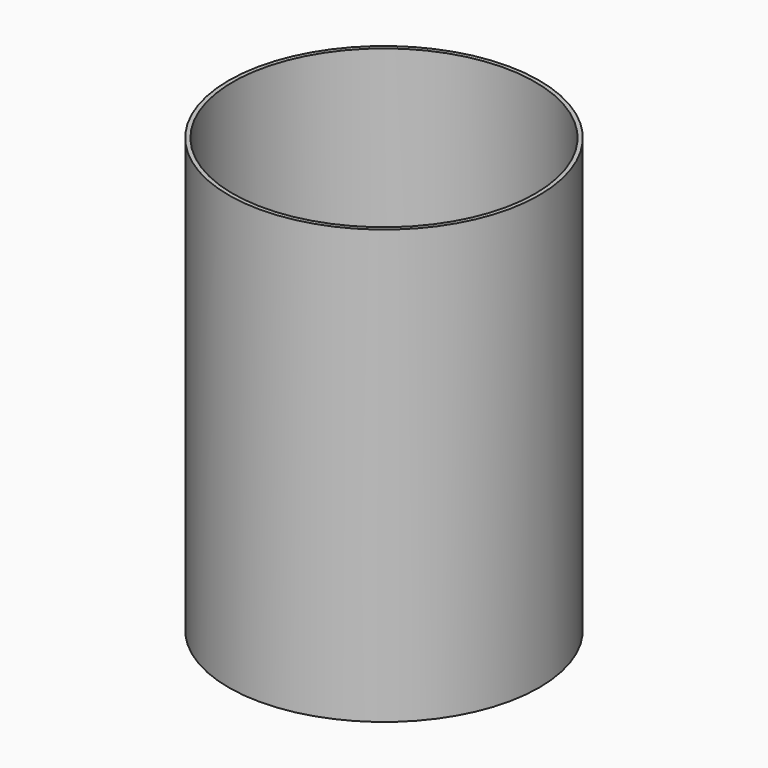
from build123d import *

# Parameters (mm, degrees)
F0_R     = 45.5
F1_DEPTH = 127
F2_R     = 44.304607
F3_DEPTH = 124.7


with BuildPart() as f1:
    # F0 (on Top) → F1 (new body)
    with BuildSketch(Plane.XY):
        Circle(F0_R)
    extrude(amount=-F1_DEPTH)

    # F2 (on face) → F3 (cut)
    with BuildSketch(Plane.XY):
        Circle(F2_R)
    extrude(amount=-F3_DEPTH, mode=Mode.SUBTRACT)


solid = f1.part
